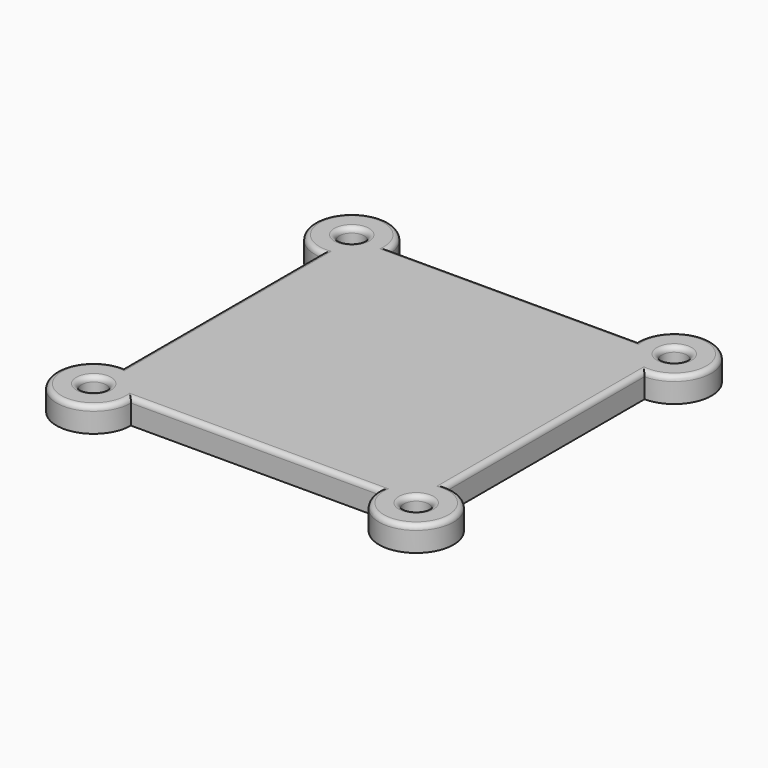
from build123d import *

# Parameters (mm, degrees)
F0_R     = 5
F1_DEPTH = 10
F2_R     = 2


with BuildPart() as f1:
    # F0 (on Top) → F1 (new body)
    with BuildSketch(Plane.XY):
        with BuildLine():
            Line((34.397093, 65.707881), (-65.602907, 65.707881))
            ThreePointArc((-65.602907, 65.707881), (-91.209509, 76.314483), (-80.602907, 50.707881))
            Line((-80.602907, 50.707881), (-80.602907, -49.292119))
            ThreePointArc((-80.602907, -49.292119), (-91.209509, -74.89872), (-65.602907, -64.292119))
            Line((-65.602907, -64.292119), (34.397093, -64.292119))
            ThreePointArc((34.397093, -64.292119), (60.003694, -74.89872), (49.397093, -49.292119))
            Line((49.397093, -49.292119), (49.397093, 50.707881))
            ThreePointArc((49.397093, 50.707881), (60.003694, 76.314483), (34.397093, 65.707881))
        make_face()
        with Locations((-80.602907, -64.292119)):
            Circle(F0_R, mode=Mode.SUBTRACT)
        with Locations((49.397093, -64.292119)):
            Circle(F0_R, mode=Mode.SUBTRACT)
        with Locations((-80.602907, 65.707881)):
            Circle(F0_R, mode=Mode.SUBTRACT)
        with Locations((49.397093, 65.707881)):
            Circle(F0_R, mode=Mode.SUBTRACT)
    extrude(amount=F1_DEPTH)

    # F2
    f2_edges = [f1.edges().sort_by_distance(p)[0] for p in [
        (-15.602907, 65.707881, 10),
        (-91.209509, 76.314483, 10),
        (-80.602907, 0.707881, 10),
        (-91.209509, -74.89872, 10),
        (-15.602907, -64.292119, 10),
        (60.003694, -74.89872, 10),
        (49.397093, 0.707881, 10),
        (60.003694, 76.314483, 10),
        (-85.602907, -64.292119, 10),
        (44.397093, -64.292119, 10),
        (-85.602907, 65.707881, 10),
        (44.397093, 65.707881, 10),
    ]]
    fillet(f2_edges, radius=F2_R)


solid = f1.part
